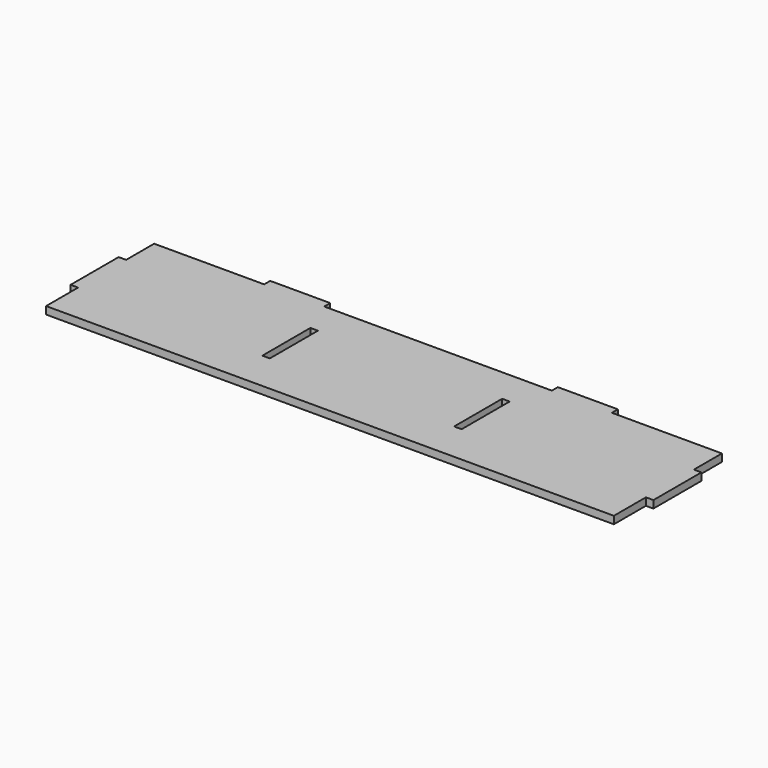
from build123d import *

# Parameters (mm, degrees)
F0_W     = 19.05
F0_H     = 152.4
F0_W_2   = 152.4
F0_H_2   = 19.05
F1_DEPTH = 19.05


with BuildPart() as f1:
    # F0 (on Top) → F1 (new body)
    with BuildSketch(Plane.XY):
        Polygon((-441.325, 0), (-720.725, 0), (-720.725, -88.9), (-720.725, -241.3), (-720.725, -342.9), (720.725, -342.9), (720.725, -241.3), (720.725, -88.9), (720.725, 0), (441.325, 0), (288.925, 0), (-288.925, 0), align=None)
        with Locations((-243.416667, -165.1)):
            Rectangle(F0_W, F0_H, mode=Mode.SUBTRACT)
        with Locations((243.416667, -165.1)):
            Rectangle(F0_W, F0_H, mode=Mode.SUBTRACT)
        with Locations((-365.125, 9.525)):
            Rectangle(F0_W_2, F0_H_2)
        with Locations((365.125, 9.525)):
            Rectangle(F0_W_2, F0_H_2)
        with Locations((730.25, -165.1)):
            Rectangle(F0_W, F0_H)
        with Locations((-730.25, -165.1)):
            Rectangle(F0_W, F0_H)
    extrude(amount=F1_DEPTH)


solid = f1.part
